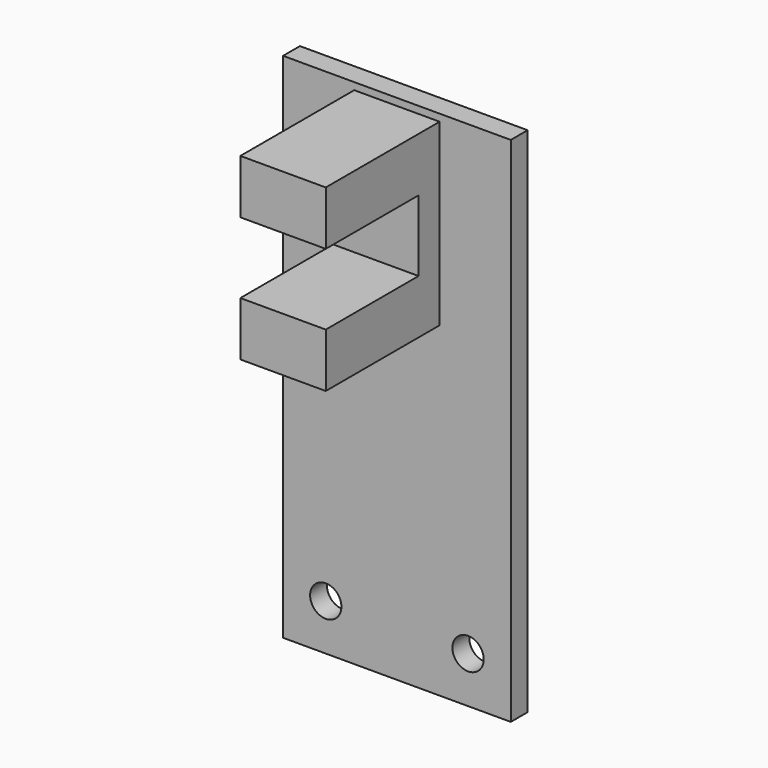
from build123d import *

# Parameters (mm, degrees)
F0_W     = 16
F0_H     = 36
F0_R     = 1.1
F1_DEPTH = 1.47957
F3_W     = 6
F3_H     = 3.8
F4_DEPTH = 10
F3_H_2   = 4.992
F5_DEPTH = 1.85


with BuildPart() as f1:
    # F0 (on Front) → F1 (new body)
    with BuildSketch(Plane.XZ):
        with Locations((8, -18)):
            Rectangle(F0_W, F0_H)
        with Locations((3, -32.75)):
            Circle(F0_R, mode=Mode.SUBTRACT)
        with Locations((13, -32.75)):
            Circle(F0_R, mode=Mode.SUBTRACT)
    extrude(amount=F1_DEPTH)

    # F3 (on face) → F4 (join)
    with BuildSketch(Plane.XZ.offset(1.47957)):
        with Locations((8, -11.192)):
            Rectangle(F3_W, F3_H)
        with Locations((8, -2.4)):
            Rectangle(F3_W, F3_H)
    extrude(amount=F4_DEPTH)

    # F3 (on face) → F5 (join)
    with BuildSketch(Plane.XZ.offset(1.47957)):
        with Locations((8, -6.796)):
            Rectangle(F3_W, F3_H_2)
    extrude(amount=F5_DEPTH)


solid = f1.part
